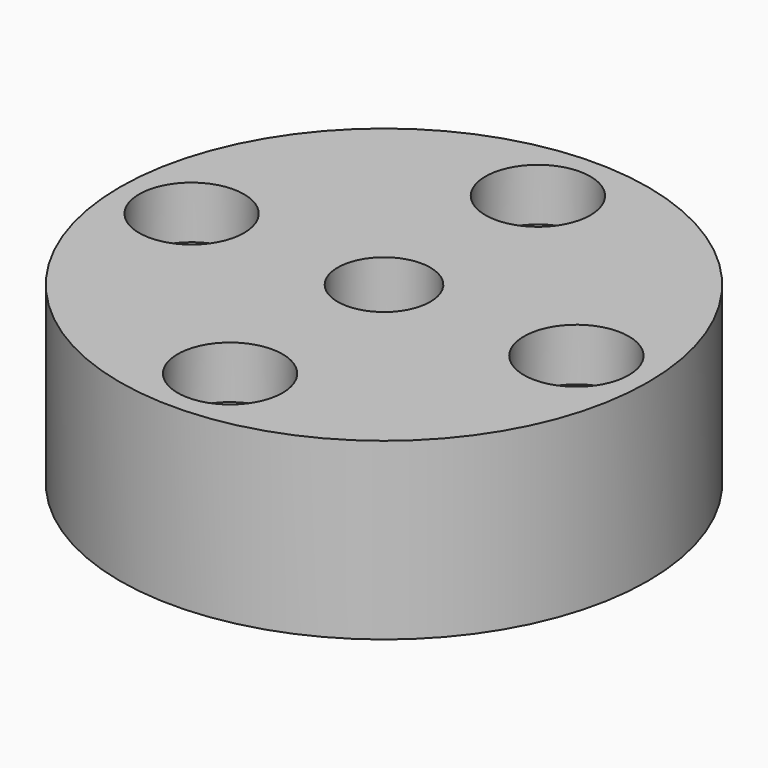
from build123d import *

# Parameters (mm, degrees)
CYLINDER1837_R     = 2.65
CYLINDER1837_DEPTH = 30
CYLINDER664_R      = 3
CYLINDER664_DEPTH  = 3
CYLINDER661_R      = 3
CYLINDER661_DEPTH  = 3
CYLINDER1842_R     = 3
CYLINDER1842_DEPTH = 3
CYLINDER1843_R     = 3
CYLINDER1843_DEPTH = 3
CYLINDER1839_R     = 1.5
CYLINDER1839_DEPTH = 30
CYLINDER658_R      = 1.5
CYLINDER658_DEPTH  = 30
CYLINDER1840_R     = 1.5
CYLINDER1840_DEPTH = 30
CYLINDER1845_R     = 1.5
CYLINDER1845_DEPTH = 30
CYLINDER1844_R     = 15.1
CYLINDER1844_DEPTH = 10


with BuildPart() as obj1:
    # Cylinder1837 → Cylinder1837 (new body)
    with BuildSketch(Plane(origin=(0, 83, 232), x_dir=(1, 0, 0), z_dir=(0, 0, 1))):
        Circle(CYLINDER1837_R)
    extrude(amount=CYLINDER1837_DEPTH)


with BuildPart() as obj2:
    # Cylinder664 → Cylinder664 (new body)
    with BuildSketch(Plane(origin=(11, 83, 232), x_dir=(1, 0, 0), z_dir=(0, 0, 1))):
        Circle(CYLINDER664_R)
    extrude(amount=CYLINDER664_DEPTH)


with BuildPart() as obj3:
    # Cylinder661 → Cylinder661 (new body)
    with BuildSketch(Plane(origin=(0, 72, 232), x_dir=(1, 0, 0), z_dir=(0, 0, 1))):
        Circle(CYLINDER661_R)
    extrude(amount=CYLINDER661_DEPTH)


with BuildPart() as obj4:
    # Cylinder1842 → Cylinder1842 (new body)
    with BuildSketch(Plane(origin=(0, 94, 232), x_dir=(1, 0, 0), z_dir=(0, 0, 1))):
        Circle(CYLINDER1842_R)
    extrude(amount=CYLINDER1842_DEPTH)


with BuildPart() as compound923:
    # Cylinder1843 → Cylinder1843 (new body)
    with BuildSketch(Plane(origin=(-11, 83, 232), x_dir=(1, 0, 0), z_dir=(0, 0, 1))):
        Circle(CYLINDER1843_R)
    extrude(amount=CYLINDER1843_DEPTH)

    # Compound923: union obj2, obj3, obj4
    add(obj2.part)
    add(obj3.part)
    add(obj4.part)


with BuildPart() as compound923_1:
    # Compound923 placement: moved
    add(compound923.part.moved(Location((0, 0, 17))))


with BuildPart() as obj5:
    # Cylinder1839 → Cylinder1839 (new body)
    with BuildSketch(Plane(origin=(11, 83, 232), x_dir=(1, 0, 0), z_dir=(0, 0, 1))):
        Circle(CYLINDER1839_R)
    extrude(amount=CYLINDER1839_DEPTH)


with BuildPart() as obj6:
    # Cylinder658 → Cylinder658 (new body)
    with BuildSketch(Plane(origin=(0, 72, 232), x_dir=(1, 0, 0), z_dir=(0, 0, 1))):
        Circle(CYLINDER658_R)
    extrude(amount=CYLINDER658_DEPTH)


with BuildPart() as obj7:
    # Cylinder1840 → Cylinder1840 (new body)
    with BuildSketch(Plane(origin=(0, 94, 232), x_dir=(1, 0, 0), z_dir=(0, 0, 1))):
        Circle(CYLINDER1840_R)
    extrude(amount=CYLINDER1840_DEPTH)


with BuildPart() as compound922:
    # Cylinder1845 → Cylinder1845 (new body)
    with BuildSketch(Plane(origin=(-11, 83, 232), x_dir=(1, 0, 0), z_dir=(0, 0, 1))):
        Circle(CYLINDER1845_R)
    extrude(amount=CYLINDER1845_DEPTH)

    # Compound922: union obj5, obj6, obj7
    add(obj5.part)
    add(obj6.part)
    add(obj7.part)


with BuildPart() as cut563:
    # Cylinder1844 → Cylinder1844 (new body)
    with BuildSketch(Plane(origin=(0, 83, 242), x_dir=(1, 0, 0), z_dir=(0, 0, 1))):
        Circle(CYLINDER1844_R)
    extrude(amount=CYLINDER1844_DEPTH)

    # Cut569: cut Compound922
    add(compound922.part, mode=Mode.SUBTRACT)

    # Cut567: cut Compound923
    add(compound923_1.part, mode=Mode.SUBTRACT)

    # Cut563: cut obj1
    add(obj1.part, mode=Mode.SUBTRACT)


solid = cut563.part
